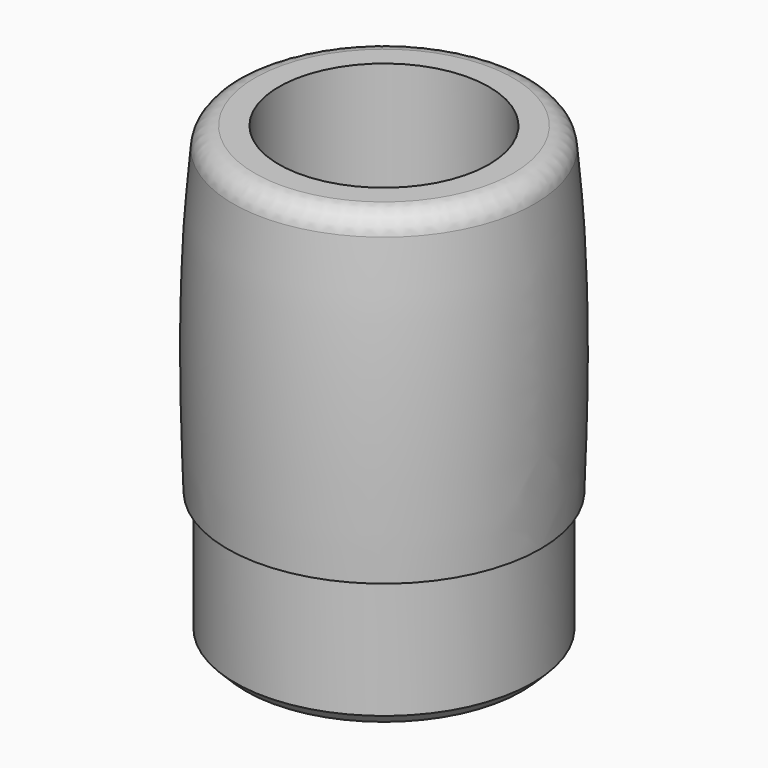
from build123d import *

# Parameters (mm, degrees)
CHAMFER001_SIZE = 0.3
FILLET_R        = 1
CHAMFER_SIZE    = 0.5
FILLET001_R     = 0.7
CHAMFER002_SIZE = 0.6


with BuildPart() as part:
    # Sketch → Revolution (revolve)
    with BuildSketch(Plane.XZ):
        with BuildLine():
            Line((4.85, 0), (4.85, 6))
            Line((4.85, 6), (2, 6))
            Line((2, 6), (2, 7.7))
            Line((2, 7.7), (4.8, 7.7))
            Line((4.8, 7.7), (4.8, 20.7))
            Line((4.8, 20.7), (6.8, 20.7))
            add(Edge.make_bspline(
                [(6.8, 20.7), (7.143442, 17.628334), (7.454755, 13.542369), (7.15, 6)],
                knots=[0, 0, 0, 0, 1, 1, 1, 1], degree=3))
            Line((7.15, 6), (6.8, 6))
            Line((6.8, 6), (6.8, 0))
            Line((6.8, 0), (4.85, 0))
        make_face()
    revolve(axis=Axis((0, 0, 0), (0, 0, 1)))

    # Chamfer001
    chamfer001_edges = [part.edges().sort_by_distance(p)[0] for p in [
        (-2, 0, 7.7),
    ]]
    chamfer(chamfer001_edges, length=CHAMFER001_SIZE)

    # Fillet
    fillet_edges = [part.edges().sort_by_distance(p)[0] for p in [
        (-6.8, 0, 20.7),
    ]]
    fillet(fillet_edges, radius=FILLET_R)

    # Chamfer
    chamfer_edges = [part.edges().sort_by_distance(p)[0] for p in [
        (-6.8, 0, 0),
    ]]
    chamfer(chamfer_edges, length=CHAMFER_SIZE)

    # Fillet001
    fillet001_edges = [part.edges().sort_by_distance(p)[0] for p in [
        (-2.3, 0, 7.7),
    ]]
    fillet(fillet001_edges, radius=FILLET001_R)

    # Chamfer002
    chamfer002_edges = [part.edges().sort_by_distance(p)[0] for p in [
        (-4.85, 0, 6),
    ]]
    chamfer(chamfer002_edges, length=CHAMFER002_SIZE)


solid = part.part
